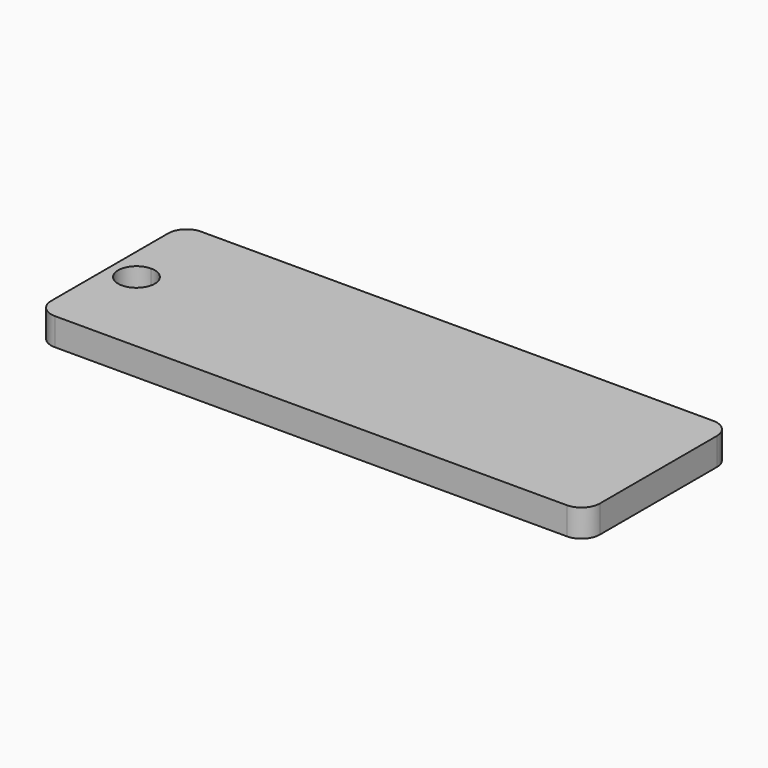
from build123d import *

# Parameters (mm, degrees)
F0_W     = 150
F0_H     = 50
F1_DEPTH = 7.5
F2_R     = 5
F3_R     = 5
F4_R     = 5
F5_R     = 5
F7_DEPTH = 25


with BuildPart() as f1:
    # F0 (on Top) → F1 (new body)
    with BuildSketch(Plane.XY):
        with Locations((67.679448, 23.464493)):
            Rectangle(F0_W, F0_H)
    extrude(amount=F1_DEPTH)

    # F2
    f2_edges = [f1.edges().sort_by_distance(p)[0] for p in [
        (-7.320552, -1.535507, 3.75),
    ]]
    fillet(f2_edges, radius=F2_R)

    # F3
    f3_edges = [f1.edges().sort_by_distance(p)[0] for p in [
        (-7.320552, 48.464493, 3.75),
    ]]
    fillet(f3_edges, radius=F3_R)

    # F4
    f4_edges = [f1.edges().sort_by_distance(p)[0] for p in [
        (142.679448, -1.535507, 3.75),
    ]]
    fillet(f4_edges, radius=F4_R)

    # F5
    f5_edges = [f1.edges().sort_by_distance(p)[0] for p in [
        (142.679448, 48.464493, 3.75),
    ]]
    fillet(f5_edges, radius=F5_R)

    # F6 (on face) → F7 (cut)
    with BuildSketch(Plane.XY.offset(7.5)):
        with BuildLine():
            ThreePointArc((0, 28.464493), (-3.535534, 19.928959), (5, 23.464493))
            ThreePointArc((5, 23.464493), (3.535534, 27.000027), (0, 28.464493))
        make_face()
    extrude(amount=-F7_DEPTH, mode=Mode.SUBTRACT)


solid = f1.part
